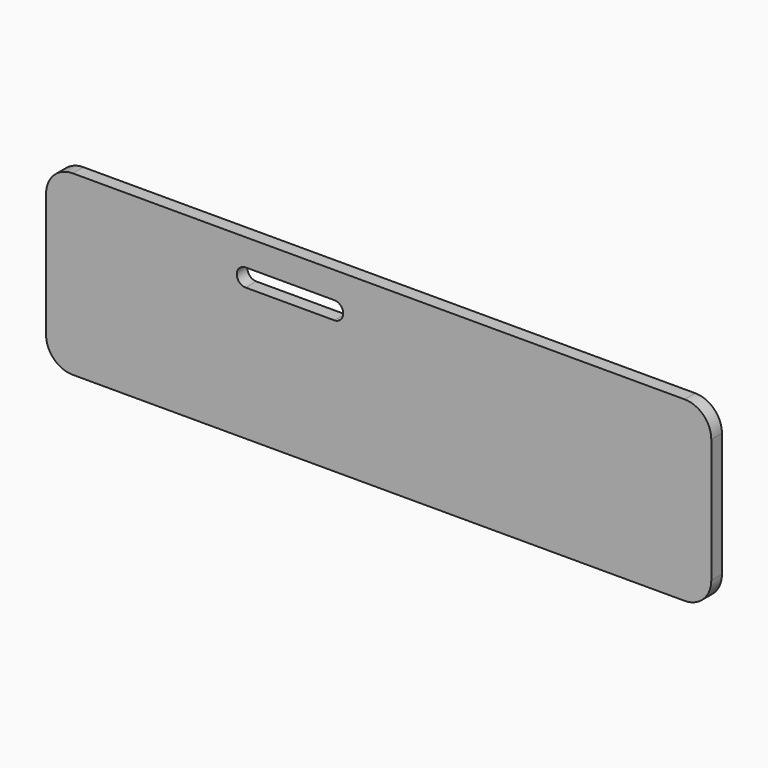
from build123d import *

# Parameters (mm, degrees)
PAD_DEPTH    = 3
POCKET_DEPTH = 3.001


with BuildPart() as part:
    # Sketch → Pad (new body)
    with BuildSketch(Plane.XZ):
        with BuildLine():
            ThreePointArc((6, 40), (1.757359, 38.242641), (0, 34))
            Line((0, 6), (0, 34))
            ThreePointArc((0, 6), (1.757359, 1.757359), (6, 0))
            Line((144, 0), (6, 0))
            ThreePointArc((144, 0), (148.242641, 1.757359), (150, 6))
            Line((150, 34), (150, 6))
            ThreePointArc((150, 34), (148.242641, 38.242641), (144, 40))
            Line((6, 40), (144, 40))
        make_face()
    extrude(amount=PAD_DEPTH)

    # Sketch001 (on Face9 of Pad) → Pocket (cut, through all)
    with BuildSketch(Plane(origin=(0, 0, 0), x_dir=(1, 0, 0), z_dir=(0, 1, 0))):
        with BuildLine():
            ThreePointArc((45, -30), (43, -32), (45, -34))
            Line((45, -34), (65, -34))
            ThreePointArc((65, -34), (67, -32), (65, -30))
            Line((65, -30), (45, -30))
        make_face()
    extrude(amount=-POCKET_DEPTH, mode=Mode.SUBTRACT)


solid = part.part
